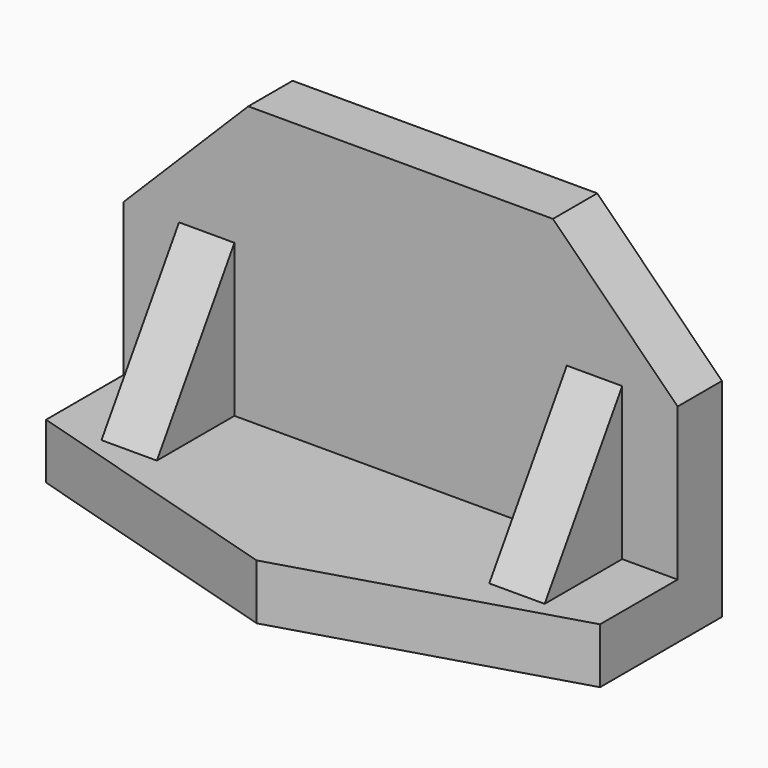
from build123d import *

# Parameters (mm, degrees)
F1_DEPTH  = 12.7
F2_W      = 127
F2_H      = 12.7
F3_DEPTH  = 22.225
F5_DEPTH  = 12.7
F6_W      = 12.7
F6_H      = 34.925
F7_DEPTH  = 22.225
F10_DEPTH = 114.301


with BuildPart() as f1:
    # F0 (on Front) → F1 (new body)
    with BuildSketch(Plane.XZ):
        Polygon((-54.749066, 62.048577), (-83.324066, 33.473577), (-83.324066, -14.151423), (43.675934, -14.151423), (43.675934, 33.473577), (15.100934, 62.048577), align=None)
    extrude(amount=F1_DEPTH)

    # F2 (on face) → F3 (join)
    with BuildSketch(Plane.XZ.offset(12.7)):
        with Locations((-19.824066, -7.801423)):
            Rectangle(F2_W, F2_H)
    extrude(amount=F3_DEPTH)

    # F4 (on face) → F5 (join)
    with BuildSketch(Plane.XY.offset(-1.451423)):
        Polygon((43.675934, -34.925), (-83.324066, -34.925), (-19.824066, -53.975), align=None)
    extrude(amount=-F5_DEPTH)

    # F6 (on face) → F7 (join)
    with BuildSketch(Plane.XZ.offset(12.7)):
        with Locations((-64.274066, 16.011077)):
            Rectangle(F6_W, F6_H)
        with Locations((24.625934, 16.011077)):
            Rectangle(F6_W, F6_H)
    extrude(amount=F7_DEPTH)

    # F9 (on face) + F8 (on face) → F10 (cut, through all)
    with BuildSketch(Plane.YZ.offset(30.975934)):
        Polygon((-34.925, 33.473577), (-34.925, -1.451423), (-12.7, 33.473577), align=None)
    with BuildSketch(Plane.YZ.offset(-57.924066)):
        Polygon((-34.925, -1.451423), (-12.7, 33.473577), (-34.925, 33.473577), align=None)
    extrude(amount=-F10_DEPTH, mode=Mode.SUBTRACT)


solid = f1.part
